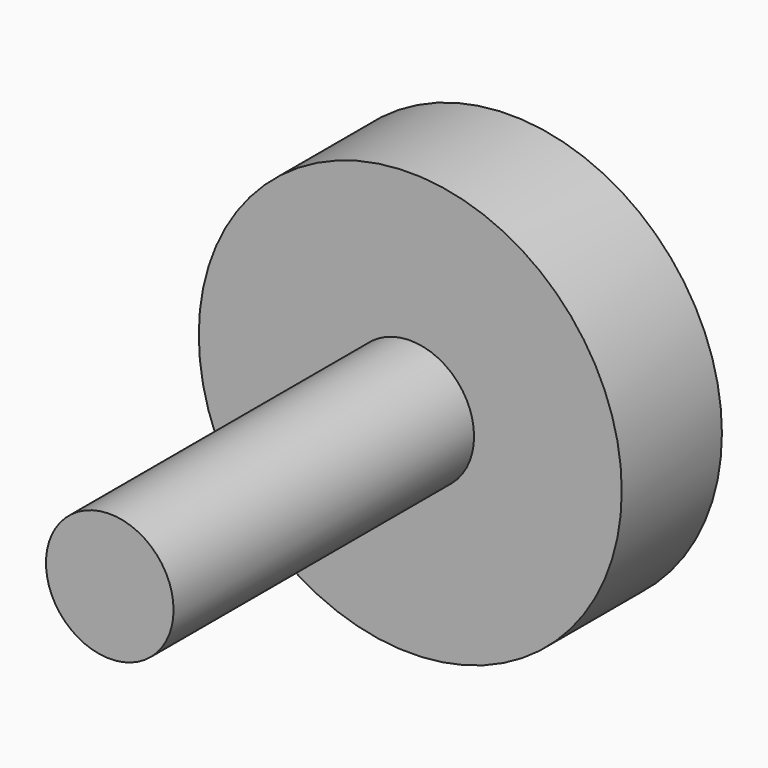
from build123d import *

# Parameters (mm, degrees)
F0_R     = 42.229766
F1_DEPTH = 25
F3_DEPTH = 10
F4_R     = 12.738084
F5_DEPTH = 100


with BuildPart() as f1:
    # F0 (on Front) → F1 (new body)
    with BuildSketch(Plane.XZ):
        Circle(F0_R)
    extrude(amount=F1_DEPTH)

    # F2 (on Front) → F3 (cut)
    with BuildSketch(Plane.XZ):
        Polygon((0.760662, -14.179654), (12.660271, -6.431074), (11.899609, 7.74858), (-0.760662, 14.179654), (-12.660271, 6.431074), (-11.899609, -7.74858), align=None)
    extrude(amount=F3_DEPTH, mode=Mode.SUBTRACT)

    # F4 (on Front) → F5 (join)
    with BuildSketch(Plane.XZ):
        Circle(F4_R)
    extrude(amount=F5_DEPTH)


solid = f1.part
